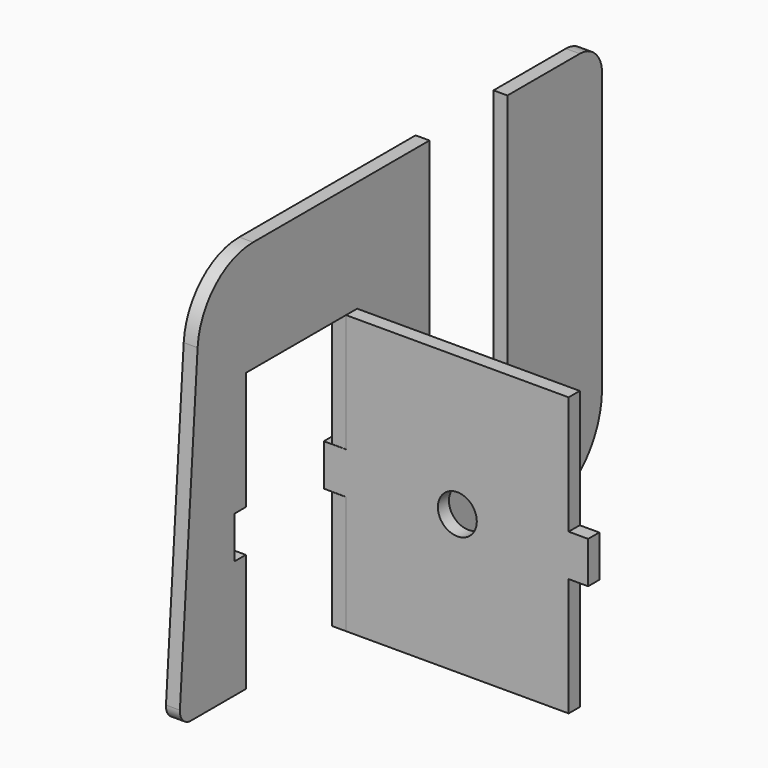
from build123d import *

# Parameters (mm, degrees)
F1_DEPTH = 5
F2_R     = 7
F2_W     = 8
F2_H     = 15
F2_W_2   = 7
F3_DEPTH = 5


with BuildPart() as f1:
    # F0 (on Right) → F1 (new body)
    with BuildSketch(Plane.YZ):
        with BuildLine():
            Line((7.5, -105), (7.5, 0))
            Line((7.5, 0), (0, 0))
            Line((0, 0), (-71.72202, 0))
            ThreePointArc((-71.72202, 0), (-88.758313, -6.703424), (-96.658487, -23.218824))
            Line((-96.658487, -23.218824), (-104.617412, -134.643765))
            ThreePointArc((-104.617412, -134.643765), (-103.289434, -138.407259), (-99.630118, -140))
            Line((-99.630118, -140), (-75, -140))
            Line((-75, -140), (-75, -97.55))
            Line((-75, -97.55), (-80, -97.55))
            Line((-80, -97.55), (-80, -82.45))
            Line((-80, -82.45), (-75, -82.45))
            Line((-75, -82.45), (-75, -40))
            Line((-75, -40), (-30, -40))
            Line((-30, -40), (-30, -82.45))
            Line((-30, -82.45), (-25, -82.45))
            Line((-25, -82.45), (-25, -97.55))
            Line((-25, -97.55), (-30, -97.55))
            Line((-30, -97.55), (-30, -140))
            Line((-30, -140), (55, -140))
            ThreePointArc((55, -140), (76.213203, -131.213203), (85, -110))
            Line((85, -110), (85, -10))
            ThreePointArc((85, -10), (82.071068, -2.928932), (75, 0))
            Line((75, 0), (42.5, 0))
            Line((42.5, 0), (42.5, -105))
            Line((42.5, -105), (7.5, -105))
        make_face()
    extrude(amount=F1_DEPTH)


with BuildPart() as f3:
    # F2 (on face) → F3 (new body)
    with BuildSketch(Plane.XZ.offset(25)):
        Polygon((85, -40), (5, -40), (5, -82.5), (5, -97.5), (5, -140), (85, -140), (85, -97.5), (85, -82.5), align=None)
        with Locations((45, -90)):
            Circle(F2_R, mode=Mode.SUBTRACT)
        with Locations((1, -90)):
            Rectangle(F2_W, F2_H)
        with Locations((88.5, -90)):
            Rectangle(F2_W_2, F2_H)
    extrude(amount=F3_DEPTH)


solid = Compound([f1.part, f3.part])
